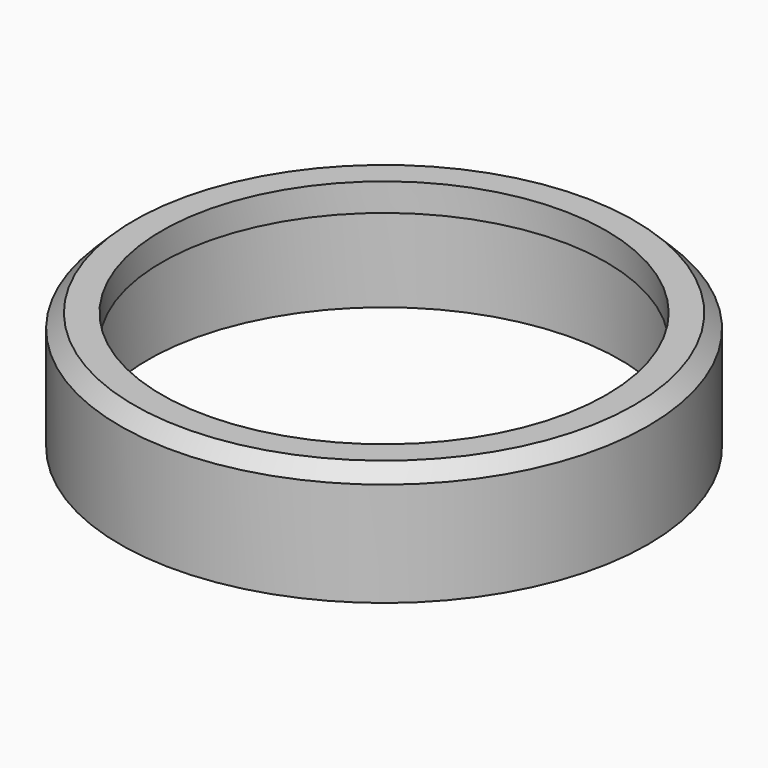
from build123d import *

# Parameters (mm, degrees)
F0_R     = 19
F1_DEPTH = 8.5
F2_R     = 16
F3_DEPTH = 10
F4_R     = 17
F5_DEPTH = 6.5
F6_SIZE  = 1


with BuildPart() as f1:
    # F0 (on Top) → F1 (new body)
    with BuildSketch(Plane.XY):
        Circle(F0_R)
    extrude(amount=F1_DEPTH)

    # F2 (on face) → F3 (cut)
    with BuildSketch(Plane(origin=(0, 0, 0), x_dir=(1, 0, 0), z_dir=(0, 0, -1))):
        Circle(F2_R)
    extrude(amount=-F3_DEPTH, mode=Mode.SUBTRACT)

    # F4 (on face) → F5 (cut)
    with BuildSketch(Plane(origin=(0, 0, 0), x_dir=(1, 0, 0), z_dir=(0, 0, -1))):
        Circle(F4_R)
    extrude(amount=-F5_DEPTH, mode=Mode.SUBTRACT)

    # F6
    f6_edges = [f1.edges().sort_by_distance(p)[0] for p in [
        (-19, 0, 8.5),
    ]]
    chamfer(f6_edges, length=F6_SIZE)


solid = f1.part
